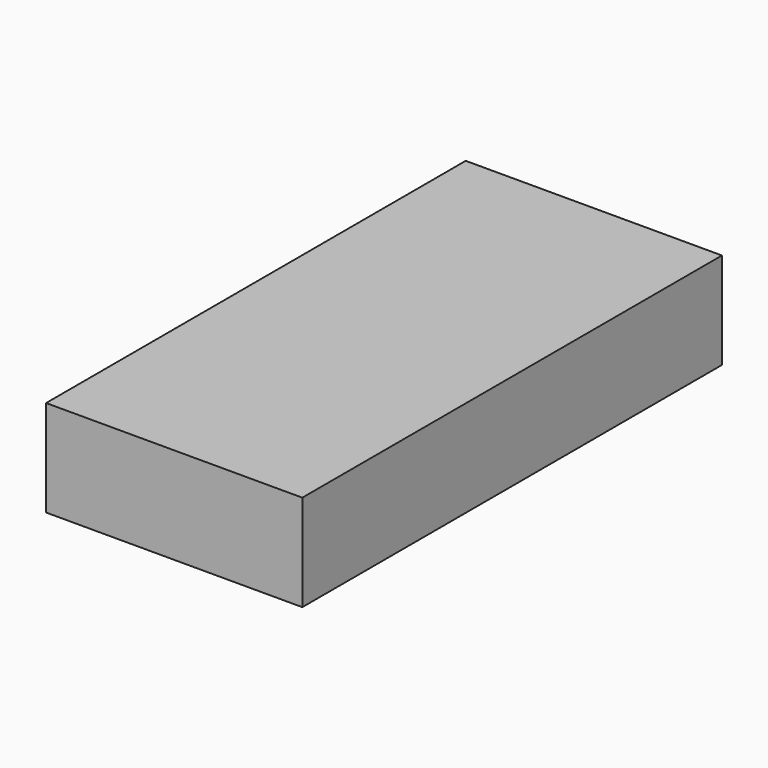
from build123d import *

# Parameters (mm, degrees)
F0_W     = 115.146682
F0_H     = 43.32944
F1_DEPTH = 235.725114
F2_W     = 95.756106
F2_H     = 34.991488
F3_DEPTH = 128.970386


with BuildPart() as f1:
    # F0 (on Front) → F1 (new body)
    with BuildSketch(Plane.XZ):
        with Locations((57.573341, 21.66472)):
            Rectangle(F0_W, F0_H)
    extrude(amount=F1_DEPTH)

    # F2 (on face) → F3 (join)
    with BuildSketch(Plane.XZ.offset(235.725114)):
        with Locations((56.274723, 25.833696)):
            Rectangle(F2_W, F2_H)
    extrude(amount=-F3_DEPTH)


solid = f1.part
